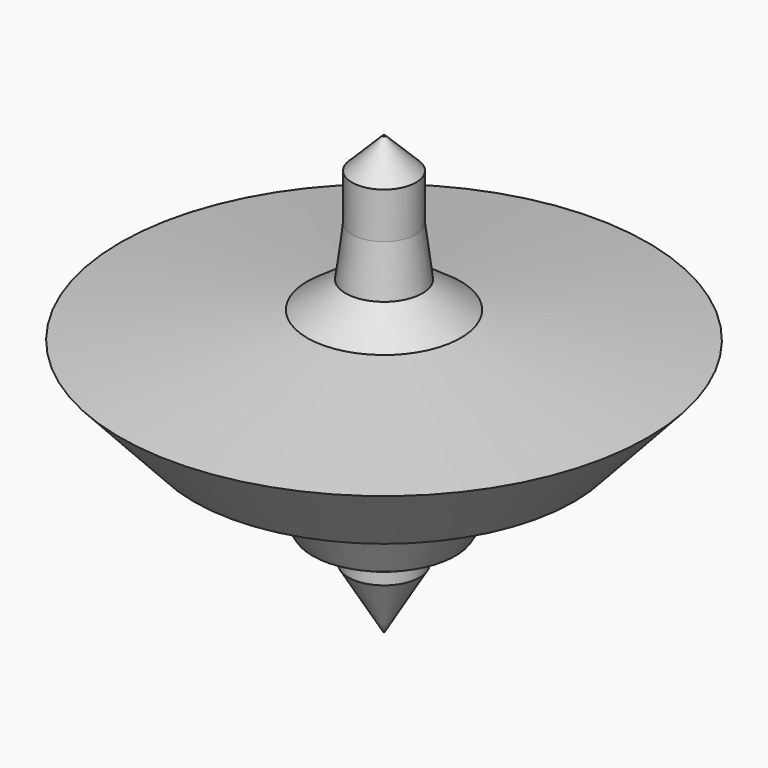
from build123d import *

# Parameters (mm, degrees)
F2_DEPTH = 5
F3_SIZE  = 2


with BuildPart() as f1:
    # F0 (on Front) → F1 (revolve)
    with BuildSketch(Plane.XZ):
        Polygon((-6.9665953279, 11.8032604518), (-4.6637503628, 7.9016302259), (-1.741648832, 7.9016302259), (0, 7.9016302259), (0, 20.5576719715), (-5.0148367882, 20.5576719715), (-17.2530292513, 18.8067907016), (-12.438103174, 13.5541430143), align=None)
        Polygon((-5.0148367882, 20.5576719715), (0, 20.5576719715), (0, 25.5600530654), (-2.0939521492, 25.5600530654), (-2.5074183941, 22.3113913089), align=None)
        Polygon((-1.741648832, 7.9016302259), (-4.6637503628, 7.9016302259), (-2.3318751814, 6.6709434614), (-2.3318751814, 5.9016302259), (0, 5.9016302259), (0, 7.9016302259), align=None)
        Polygon((-2.3318751814, 5.9016302259), (0, 1.9508151129), (0, 5.9016302259), align=None)
    revolve(axis=Axis((0, 0, 10.2788359857), (0, 0, -1)))

    # F2 (add): a face of the model
    f2_faces = [f1.faces().sort_by_distance(p)[0] for p in [
        (0, 0, 25.5600530654),
    ]]
    extrude(f2_faces, amount=F2_DEPTH)

    # F3
    f3_edges = [f1.edges().sort_by_distance(p)[0] for p in [
        (2.093952, 0, 30.560053),
    ]]
    chamfer(f3_edges, length=F3_SIZE)


solid = f1.part
